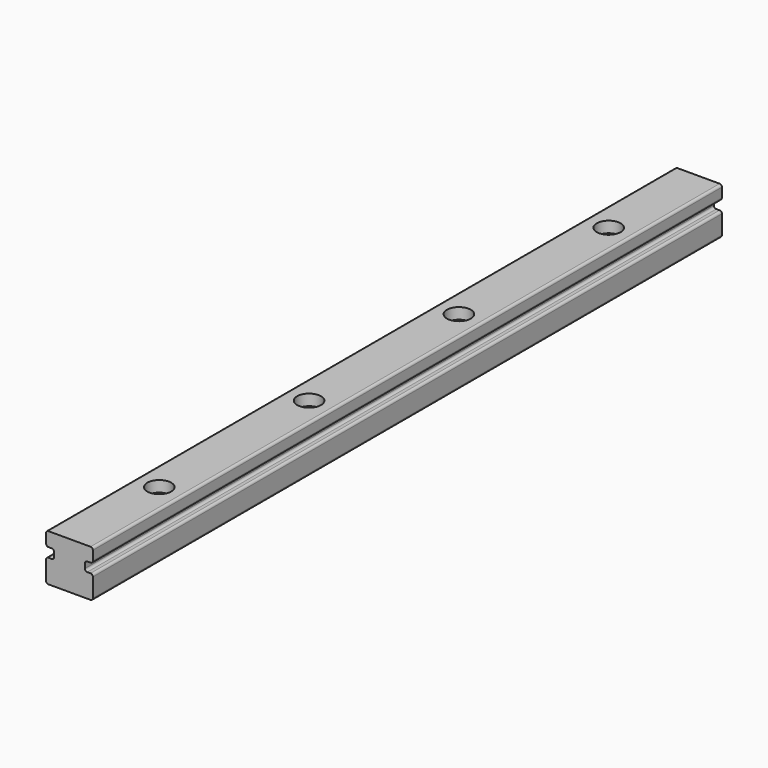
from build123d import *

# Parameters (mm, degrees)
F1_DEPTH       = 214.3125
F2_R           = 0.635
F4_D           = 3.3
F4_DEPTH       = 14.4876
F4_CBORE_D     = 6.5
F4_CBORE_DEPTH = 3
F4_TIP         = 0.9914200214
F5_DEPTH       = 0.508
F6_DEPTH       = 0.508


with BuildPart() as f1:
    # F0 (on Front) → F1 (new body)
    with BuildSketch(Plane.XZ):
        Polygon((-9.5129261665, 6.35), (-9.5129261665, 0), (3.1870738335, 0), (3.1870738335, 6.35), (1.0164155129, 6.35), (1.0164155129, 8.89), (3.1870738335, 8.89), (3.1870738335, 12.7), (-9.5129261665, 12.7), (-9.5129261665, 8.89), (-7.3422678459, 8.89), (-7.3422678459, 6.35), align=None)
    extrude(amount=F1_DEPTH)

    # F2
    f2_edges = [f1.edges().sort_by_distance(p)[0] for p in [
        (3.187074, -107.15625, 8.89),
        (-9.512926, -107.15625, 8.89),
        (-7.342268, -107.15625, 8.89),
        (-7.342268, -107.15625, 6.35),
        (-9.512926, -107.15625, 6.35),
        (1.016416, -107.15625, 6.35),
        (3.187074, -107.15625, 6.35),
        (1.016416, -107.15625, 8.89),
        (3.187074, -107.15625, 12.7),
        (-9.512926, -107.15625, 12.7),
        (-9.512926, -107.15625, 0),
        (3.187074, -107.15625, 0),
    ]]
    fillet(f2_edges, radius=F2_R)

    # F4
    with Locations(Plane.XY.offset(12.7)):
        with Locations((-3.1629261665, -30.95625), (-3.1629261665, -81.75625), (-3.1629261665, -132.55625), (-3.1629261665, -183.35625)):
            CounterBoreHole(F4_D / 2, F4_CBORE_D / 2, F4_CBORE_DEPTH, depth=F4_DEPTH)
            with Locations((0, 0, -(F4_DEPTH + F4_TIP / 2))):  # 118° drill point
                Cone(0, F4_D / 2, F4_TIP, mode=Mode.SUBTRACT)

    # F5 (cut): a face of the model
    f5_faces = [f1.faces().sort_by_distance(p)[0] for p in [
        (-3.1629261665, -214.3125, 6.2565868028),
    ]]
    extrude(f5_faces, amount=-F5_DEPTH, mode=Mode.SUBTRACT)

    # F6 (cut): a face of the model
    f6_faces = [f1.faces().sort_by_distance(p)[0] for p in [
        (-3.1629261665, 0, 6.2565868028),
    ]]
    extrude(f6_faces, amount=-F6_DEPTH, mode=Mode.SUBTRACT)


solid = f1.part
